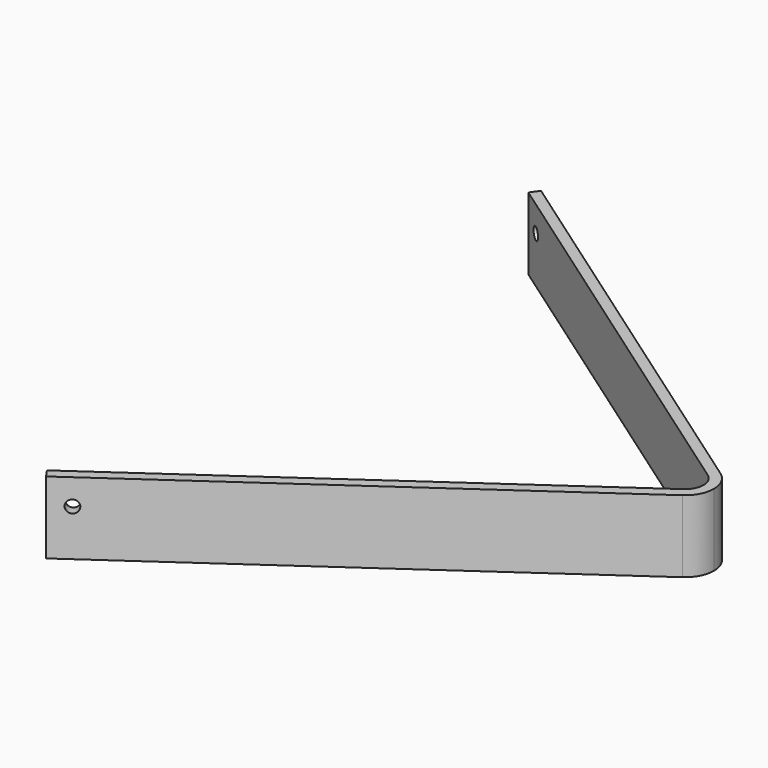
from build123d import *

# Parameters (mm, degrees)
PAD002_DEPTH           = 70
SKETCH006_R            = 6
POCKET002_DEPTH        = 30
SKETCH007_R            = 6
POCKET003_DEPTH        = 243.806754
LINEARPATTERN001_COUNT = 4
LINEARPATTERN001_PITCH = 130


with BuildPart() as part:
    # Sketch004 → Pad002 (new body)
    with BuildSketch(Plane.XY):
        with BuildLine():
            Line((-379.627892, 300), (16.06014, 22.936257))
            ThreePointArc((28, 0), (24.836303, 12.928961), (16.06014, 22.936257))
            Line((18, 0), (28, 0))
            ThreePointArc((18, 0), (15.966195, 8.311475), (10.324376, 14.744737))
            Line((10.324376, 14.744737), (-385.363656, 291.80848))
            Line((-385.363656, 291.80848), (-379.627892, 300))
        make_face()
    extrude(amount=PAD002_DEPTH)

    # Sketch006 → Pocket002 (cut)
    with BuildSketch(Plane(origin=(0, 126.75, 0), x_dir=(-1, 0, 0), z_dir=(0, 1, 0))):
        with Locations((26.740569, 25.24131)):
            Circle(SKETCH006_R)
    extrude(amount=-POCKET002_DEPTH, mode=Mode.SUBTRACT)

    # Sketch007 (on Face2 of Pocket002) → Pocket003 (cut, through all)
    with BuildSketch(Plane(origin=(10.324376, 14.744737, 0), x_dir=(0.819152, -0.573576, 0), z_dir=(-0.573576, -0.819152, 0))):
        with Locations((-463.045894, 45)):
            Circle(SKETCH007_R)
    pocket003 = extrude(amount=-POCKET003_DEPTH, mode=Mode.SUBTRACT)

    # LinearPattern001: Pocket003 ×4
    with Locations(*[Vector(-0.819152, 0.573576, 0) * (i * LINEARPATTERN001_PITCH) for i in range(1, LINEARPATTERN001_COUNT)]):
        add(pocket003, mode=Mode.SUBTRACT)

    # Mirrored001: part across XZ


with BuildPart() as part_1:
    add(part.part)
    add(part.part.mirror(Plane.XZ))


with BuildPart() as part_2:
    # Body001 placement: moved
    add(part_1.part.moved(Location((0, 0, -20))))


solid = part_2.part
